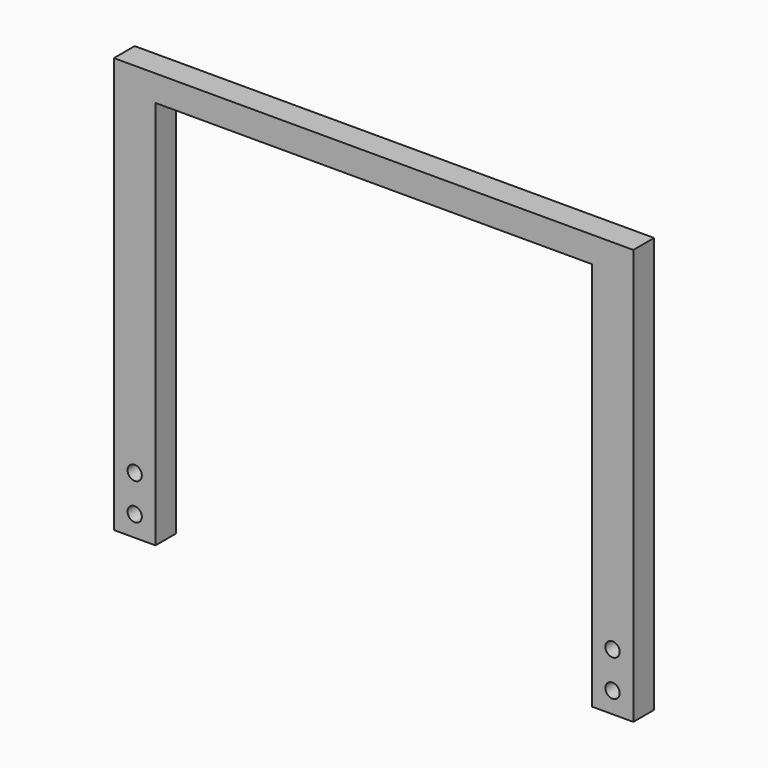
from build123d import *

# Parameters (mm, degrees)
F0_W     = 16
F0_H     = 150
F1_DEPTH = 10
F3_D     = 5.5


with BuildPart() as f1:
    # F0 (on Front) → F1 (new body)
    with BuildSketch(Plane.XZ):
        with Locations((-92, -80)):
            Rectangle(F0_W, F0_H)
        with Locations((92, -80)):
            Rectangle(F0_W, F0_H)
        Polygon((100, -5), (100, 5), (-100, 5), (-100, -5), (-84, -5), (84, -5), align=None)
    extrude(amount=F1_DEPTH)

    # F3 (through all)
    with Locations(Plane.XZ.offset(10)):
        with Locations((-92, -147), (-92, -133), (92, -133), (92, -147)):
            Hole(F3_D / 2)


solid = f1.part
